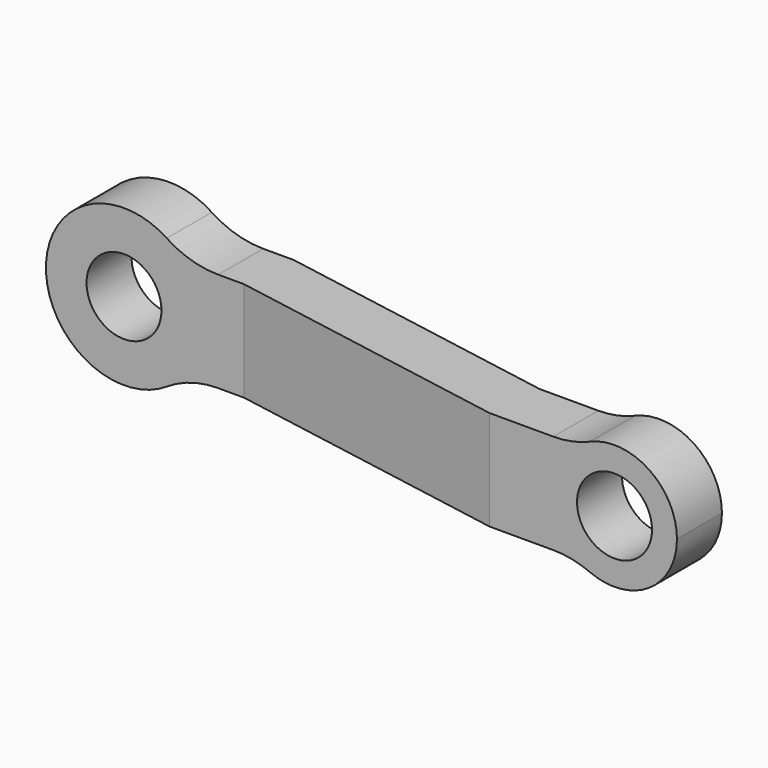
from build123d import *

# Parameters (mm, degrees)
F0_R     = 6
F1_DEPTH = 25
F3_DEPTH = 12.5
F4_R     = 15


with BuildPart() as f1:
    # F0 (on Front) → F1 (new body)
    with BuildSketch(Plane.XZ):
        with BuildLine():
            ThreePointArc((9.604686, -8), (11.753905, -4.253905), (12.5, 0))
            ThreePointArc((12.5, 0), (11.753905, 4.253905), (9.604686, 8))
            ThreePointArc((9.604686, 8), (-12.5, 0), (9.604686, -8))
        make_face()
        Circle(F0_R, mode=Mode.SUBTRACT)
        with BuildLine():
            ThreePointArc((9.604686, 8), (11.753905, 4.253905), (12.5, 0))
            ThreePointArc((12.5, 0), (11.753905, -4.253905), (9.604686, -8))
            Line((9.604686, -8), (79, -8))
            ThreePointArc((79, -8), (75, 0), (79, 8))
            Line((79, 8), (9.604686, 8))
        make_face()
        with BuildLine():
            ThreePointArc((95, 0), (89.472136, 8.944272), (79, 8))
            ThreePointArc((79, 8), (75, 0), (79, -8))
            ThreePointArc((79, -8), (89.472136, -8.944272), (95, 0))
        make_face()
        with Locations((85, 0)):
            Circle(F0_R, mode=Mode.SUBTRACT)
    extrude(amount=F1_DEPTH)

    # F2 (on Top) → F3 (intersect, symmetric)
    with BuildSketch(Plane.XY):
        Polygon((95, -17.073554), (95, -8.073554), (65.787398, -8.073554), (20, 0), (-12.5, 0), (-12.5, -9), (19.212602, -9), (65, -17.073554), align=None)
    extrude(amount=F3_DEPTH, both=True, mode=Mode.INTERSECT)

    # F4
    f4_edges = [f1.edges().sort_by_distance(p)[0] for p in [
        (79, -12.573554, -8),
        (9.604686, -4.5, -8),
        (9.604686, -4.5, 8),
        (79, -12.573554, 8),
    ]]
    fillet(f4_edges, radius=F4_R)


solid = f1.part
